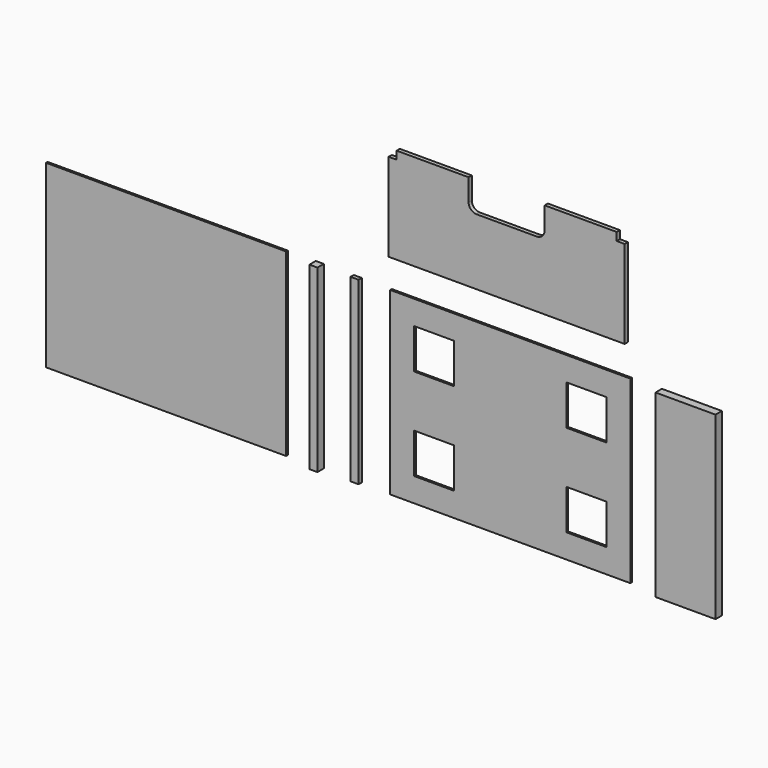
from build123d import *

# Parameters (mm, degrees)
F0_W      = 50.8
F0_H      = 1143
F1_DEPTH  = 50.8
F2_W      = 50.8
F2_H      = 1143
F3_DEPTH  = 25.4
F4_W      = 1524
F4_H      = 1143
F5_DEPTH  = 12.7
F6_W      = 1524
F6_H      = 1143
F6_W_2    = 254
F6_H_2    = 254
F7_DEPTH  = 12.7
F9_DEPTH  = 25.4
F10_W     = 381
F10_H     = 1143
F11_DEPTH = 50.8


with BuildPart() as f1:
    # F0 (on Front) → F1 (new body)
    with BuildSketch(Plane.XZ):
        with Locations((25.4, 571.5)):
            Rectangle(F0_W, F0_H)
    extrude(amount=F1_DEPTH)


with BuildPart() as f3:
    # F2 (on Front) → F3 (new body)
    with BuildSketch(Plane.XZ):
        with Locations((266.7, 571.5)):
            Rectangle(F2_W, F2_H)
    extrude(amount=F3_DEPTH)


with BuildPart() as f5:
    # F4 (on Front) → F5 (new body)
    with BuildSketch(Plane.XZ):
        with Locations((-939.8, 571.5)):
            Rectangle(F4_W, F4_H)
    extrude(amount=F5_DEPTH)


with BuildPart() as f7:
    # F6 (on Front) → F7 (new body)
    with BuildSketch(Plane.XZ):
        with Locations((1244.6, 571.5)):
            Rectangle(F6_W, F6_H)
        with Locations((762, 279.4)):
            Rectangle(F6_W_2, F6_H_2, mode=Mode.SUBTRACT)
        with Locations((1727.2, 279.4)):
            Rectangle(F6_W_2, F6_H_2, mode=Mode.SUBTRACT)
        with Locations((762, 863.6)):
            Rectangle(F6_W_2, F6_H_2, mode=Mode.SUBTRACT)
        with Locations((1727.2, 863.6)):
            Rectangle(F6_W_2, F6_H_2, mode=Mode.SUBTRACT)
    extrude(amount=F7_DEPTH)


with BuildPart() as f9:
    # F8 (on Front) → F9 (new body)
    with BuildSketch(Plane.XZ):
        with BuildLine():
            Line((482.6, 1892.3), (482.6, 1333.5))
            Line((482.6, 1333.5), (1981.2, 1333.5))
            Line((1981.2, 1333.5), (1981.2, 1892.3))
            Line((1981.2, 1892.3), (1930.4, 1892.3))
            Line((1930.4, 1892.3), (1930.4, 1943.1))
            Line((1930.4, 1943.1), (1473.2, 1943.1))
            Line((1473.2, 1943.1), (1473.2, 1803.4))
            ThreePointArc((1473.2, 1803.4), (1458.321024, 1767.478976), (1422.4, 1752.6))
            Line((1422.4, 1752.6), (1041.4, 1752.6))
            ThreePointArc((1041.4, 1752.6), (1005.478976, 1767.478976), (990.6, 1803.4))
            Line((990.6, 1803.4), (990.6, 1943.1))
            Line((990.6, 1943.1), (533.4, 1943.1))
            Line((533.4, 1943.1), (533.4, 1892.3))
            Line((533.4, 1892.3), (482.6, 1892.3))
        make_face()
    extrude(amount=F9_DEPTH)


with BuildPart() as f11:
    # F10 (on Front) → F11 (new body)
    with BuildSketch(Plane.XZ):
        with Locations((2387.6, 571.5)):
            Rectangle(F10_W, F10_H)
    extrude(amount=F11_DEPTH)


solid = Compound([f1.part, f3.part, f5.part, f7.part, f9.part, f11.part])
